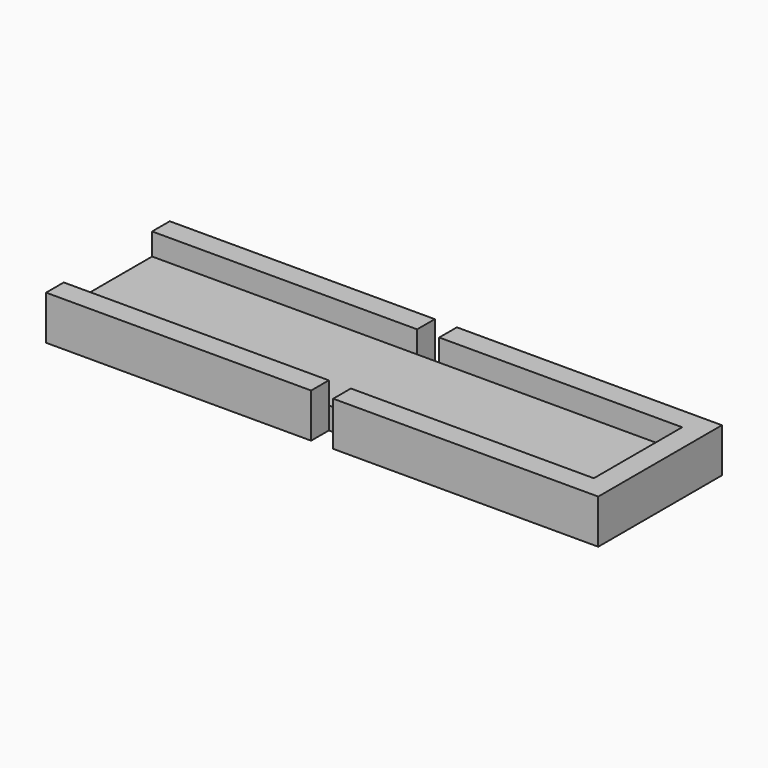
from build123d import *

# Parameters (mm, degrees)
F0_W     = 24
F0_H     = 10
F0_H_2   = 2
F0_W_2   = 2
F0_W_3   = 22
F1_DEPTH = 2
F2_DEPTH = 4


with BuildPart() as f1:
    # F0 (on Top) → F1 (new body)
    with BuildSketch(Plane.XY):
        with Locations((-13, 0)):
            Rectangle(F0_W, F0_H)
        with Locations((-13, -6)):
            Rectangle(F0_W, F0_H_2)
        Rectangle(F0_W_2, F0_H)
        with Locations((12, -6)):
            Rectangle(F0_W_3, F0_H_2)
        with Locations((24, -6)):
            Rectangle(F0_W_2, F0_H_2)
        with Locations((24, 0)):
            Rectangle(F0_W_2, F0_H)
        with Locations((12, 0)):
            Rectangle(F0_W_3, F0_H)
        with Locations((12, 6)):
            Rectangle(F0_W_3, F0_H_2)
        with Locations((-13, 6)):
            Rectangle(F0_W, F0_H_2)
        with Locations((24, 6)):
            Rectangle(F0_W_2, F0_H_2)
    extrude(amount=F1_DEPTH)

    # F0 (on Top) → F2 (join)
    with BuildSketch(Plane.XY):
        with Locations((12, -6)):
            Rectangle(F0_W_3, F0_H_2)
        with Locations((24, -6)):
            Rectangle(F0_W_2, F0_H_2)
        with Locations((24, 0)):
            Rectangle(F0_W_2, F0_H)
        with Locations((24, 6)):
            Rectangle(F0_W_2, F0_H_2)
        with Locations((12, 6)):
            Rectangle(F0_W_3, F0_H_2)
        with Locations((-13, 6)):
            Rectangle(F0_W, F0_H_2)
        with Locations((-13, -6)):
            Rectangle(F0_W, F0_H_2)
    extrude(amount=F2_DEPTH)


solid = f1.part
